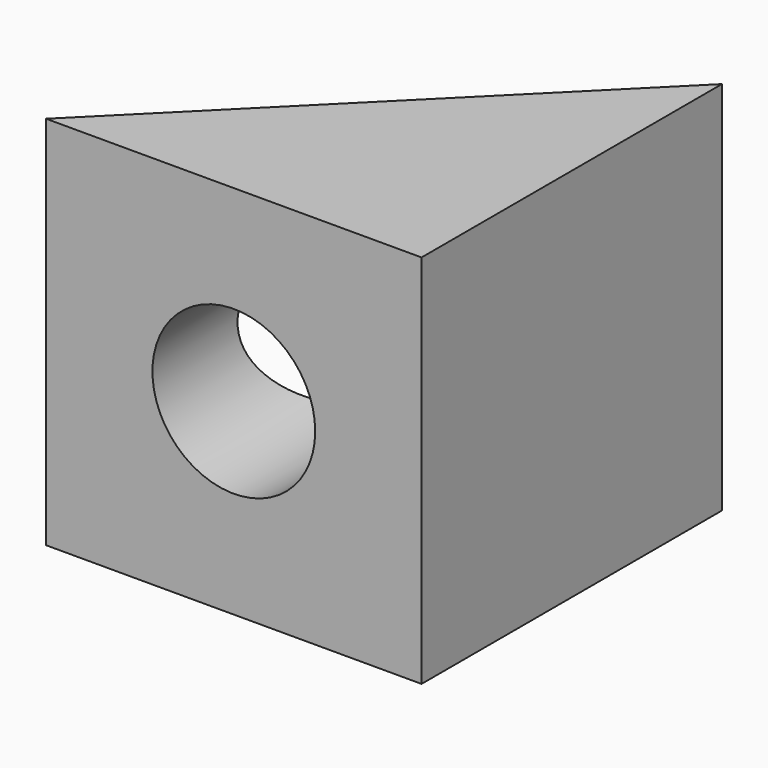
from build123d import *

# Parameters (mm, degrees)
F1_DEPTH = 43.942
F2_R     = 9.525
F3_DEPTH = 43.943


with BuildPart() as f1:
    # F0 (on Top) → F1 (new body)
    with BuildSketch(Plane.XY):
        Polygon((-43.942, 0), (0, 0), (0, 43.942), align=None)
    extrude(amount=F1_DEPTH)

    # F2 (on face) → F3 (cut, through all)
    with BuildSketch(Plane.XZ):
        with Locations((-21.971, 21.971)):
            Circle(F2_R)
    extrude(amount=-F3_DEPTH, mode=Mode.SUBTRACT)


solid = f1.part
